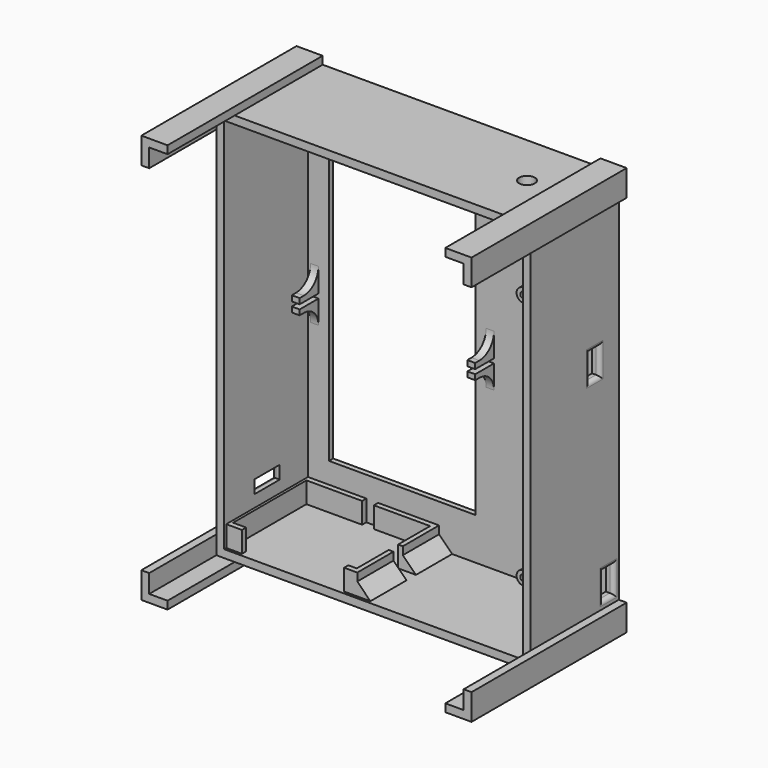
from build123d import *

# Parameters (mm, degrees)
CYLINDER002_R             = 3
CYLINDER002_DEPTH         = 10
BOX040_W                  = 56
BOX040_H                  = 10
BOX040_DEPTH              = 122
BOX021_W                  = 47.2
BOX021_H                  = 35
BOX021_DEPTH              = 8
BOX023_W                  = 4.5
BOX023_H                  = 2
BOX023_DEPTH              = 8
BOX022_W                  = 2
BOX022_H                  = 4.5
BOX022_DEPTH              = 8
BOX020_W                  = 17
BOX020_H                  = 5
BOX020_DEPTH              = 12
BOX018_W                  = 48.5
BOX018_H                  = 4.6
BOX018_DEPTH              = 25.5
FUSION005_PLACEMENT_ANGLE = 90
BOX029_W                  = 10
BOX029_H                  = 5
BOX029_DEPTH              = 10
BOX027_W                  = 29.6
BOX027_H                  = 2
BOX027_DEPTH              = 99.5
BOX028_W                  = 10
BOX028_H                  = 5
BOX028_DEPTH              = 10
BOX035_W                  = 10
BOX035_H                  = 77
BOX035_DEPTH              = 10
BOX034_W                  = 10
BOX034_H                  = 74
BOX034_DEPTH              = 10
CUT016_PLACEMENT_ANGLE    = 90
BOX037_W                  = 10
BOX037_H                  = 77
BOX037_DEPTH              = 10
BOX036_W                  = 10
BOX036_H                  = 74
BOX036_DEPTH              = 10
CUT017_PLACEMENT_ANGLE    = 90
BOX039_W                  = 10
BOX039_H                  = 77
BOX039_DEPTH              = 10
BOX038_W                  = 10
BOX038_H                  = 74
BOX038_DEPTH              = 10
CUT018_PLACEMENT_ANGLE    = 180
BOX033_W                  = 10
BOX033_H                  = 77
BOX033_DEPTH              = 10
BOX017_W                  = 10
BOX017_H                  = 74
BOX017_DEPTH              = 10
BOX032_W                  = 39
BOX032_H                  = 10
BOX032_DEPTH              = 10
BOX024_W                  = 50
BOX024_H                  = 39
BOX024_DEPTH              = 8
BOX026_W                  = 72
BOX026_H                  = 18
BOX026_DEPTH              = 1.7
BOX025_W                  = 3
BOX025_H                  = 10
BOX025_DEPTH              = 5.8
ARRAY005_X_COUNT          = 2
ARRAY005_X_PITCH          = 67
CYLINDER001_R             = 1.2
CYLINDER001_DEPTH         = 4
CYLINDER_R                = 2.6
CYLINDER_DEPTH            = 4
ARRAY006_X_COUNT          = 2
ARRAY006_X_PITCH          = 25
ARRAY006_Z_COUNT          = 2
ARRAY006_Z_PITCH          = 95
BOX016_W                  = 114
BOX016_H                  = 50
BOX016_DEPTH              = 144
BOX015_W                  = 120
BOX015_H                  = 42
BOX015_DEPTH              = 150
FILLET001_R               = 7
CHAMFER_SIZE              = 5
FILLET002_R               = 1.5


with BuildPart() as cilindro002:
    # Cylinder002 → Cylinder002 (new body)
    with BuildSketch(Plane(origin=(101.22, 63.68, 142.21), x_dir=(1, 0, 0), z_dir=(0, 0, 1))):
        Circle(CYLINDER002_R)
    extrude(amount=CYLINDER002_DEPTH)


with BuildPart() as cubo021:
    # Box040 → Box040 (new body)
    with BuildSketch(Plane(origin=(11, 81, 19), x_dir=(1, 0, 0), z_dir=(0, 0, 1))):
        with Locations((28, 5)):
            Rectangle(BOX040_W, BOX040_H)
    extrude(amount=BOX040_DEPTH)


with BuildPart() as protoboard:
    # Box021 → Box021 (new body)
    with BuildSketch(Plane.XY):
        with Locations((23.6, 17.5)):
            Rectangle(BOX021_W, BOX021_H)
    extrude(amount=BOX021_DEPTH)


with BuildPart() as obj1:
    # Box023 → Box023 (new body)
    with BuildSketch(Plane(origin=(21.25, 35, 0), x_dir=(1, 0, 0), z_dir=(0, 0, 1))):
        with Locations((2.25, 1)):
            Rectangle(BOX023_W, BOX023_H)
    extrude(amount=BOX023_DEPTH)


with BuildPart() as obj2:
    # Box022 → Box022 (new body)
    with BuildSketch(Plane(origin=(47, 15.25, 0), x_dir=(1, 0, 0), z_dir=(0, 0, 1))):
        with Locations((1, 2.25)):
            Rectangle(BOX022_W, BOX022_H)
    extrude(amount=BOX022_DEPTH)


with BuildPart() as cubo010:
    # Box020 → Box020 (new body)
    with BuildSketch(Plane(origin=(-7, 5, 6.75), x_dir=(1, 0, 0), z_dir=(0, 0, 1))):
        with Locations((8.5, 2.5)):
            Rectangle(BOX020_W, BOX020_H)
    extrude(amount=BOX020_DEPTH)


with BuildPart() as obj3:
    # Box018 → Box018 (new body)
    with BuildSketch(Plane(origin=(0, 0.4, 0), x_dir=(1, 0, 0), z_dir=(0, 0, 1))):
        with Locations((24.25, 2.3)):
            Rectangle(BOX018_W, BOX018_H)
    extrude(amount=BOX018_DEPTH)

    # Fusion005: union Cubo010
    add(cubo010.part)


with BuildPart() as obj3_1:
    # Fusion005 placement: moved
    add(obj3.part.moved(Location((-0.75, 30.25, 7.6))).rotate(Axis((-0.75, 30.25, 7.6), (1, 0, 0)), FUSION005_PLACEMENT_ANGLE))

    # Fusion006: union protoboard, obj1, obj2
    add(protoboard.part)
    add(obj1.part)
    add(obj2.part)


with BuildPart() as obj3_2:
    # Fusion006 placement: moved
    add(obj3_1.part.moved(Location((4, 45, 3))))


with BuildPart() as on_off:
    # Box029 → Box029 (new body)
    with BuildSketch(Plane(origin=(26, -6, 81.5), x_dir=(1, 0, 0), z_dir=(0, 0, 1))):
        with Locations((5, 2.5)):
            Rectangle(BOX029_W, BOX029_H)
    extrude(amount=BOX029_DEPTH)


with BuildPart() as obj4:
    # Box027 → Box027 (new body)
    with BuildSketch(Plane.XY):
        with Locations((14.8, 1)):
            Rectangle(BOX027_W, BOX027_H)
    extrude(amount=BOX027_DEPTH)


with BuildPart() as fusion011:
    # Box028 → Box028 (new body)
    with BuildSketch(Plane(origin=(26, 0.6, 5.5), x_dir=(1, 0, 0), z_dir=(0, 0, 1))):
        with Locations((5, 2.5)):
            Rectangle(BOX028_W, BOX028_H)
    extrude(amount=BOX028_DEPTH)

    # Fusion008: union on_off, obj4
    add(on_off.part)
    add(obj4.part)


with BuildPart() as fusion011_1:
    # Fusion008 placement: moved
    add(fusion011.part.moved(Location((85.8, 76, 4.23))))

    # Fusion011: union obj3
    add(obj3_2.part)


with BuildPart() as cubo016:
    # Box035 → Box035 (new body)
    with BuildSketch(Plane(origin=(0, 10, 140), x_dir=(1, 0, 0), z_dir=(0, 0, 1))):
        with Locations((5, 38.5)):
            Rectangle(BOX035_W, BOX035_H)
    extrude(amount=BOX035_DEPTH)


with BuildPart() as cut016:
    # Box034 → Box034 (new body)
    with BuildSketch(Plane(origin=(-3, 10, 143), x_dir=(1, 0, 0), z_dir=(0, 0, 1))):
        with Locations((5, 37)):
            Rectangle(BOX034_W, BOX034_H)
    extrude(amount=BOX034_DEPTH)

    # Cut016: cut Cubo016
    add(cubo016.part, mode=Mode.SUBTRACT)


with BuildPart() as cut016_1:
    # Cut016 placement: moved
    add(cut016.part.moved(Location((-30, 0, 150))).rotate(Axis((-30, 0, 150), (0, 1, 0)), CUT016_PLACEMENT_ANGLE))


with BuildPart() as cubo018:
    # Box037 → Box037 (new body)
    with BuildSketch(Plane(origin=(0, 10, 140), x_dir=(1, 0, 0), z_dir=(0, 0, 1))):
        with Locations((5, 38.5)):
            Rectangle(BOX037_W, BOX037_H)
    extrude(amount=BOX037_DEPTH)


with BuildPart() as cut017:
    # Box036 → Box036 (new body)
    with BuildSketch(Plane(origin=(-3, 10, 143), x_dir=(1, 0, 0), z_dir=(0, 0, 1))):
        with Locations((5, 37)):
            Rectangle(BOX036_W, BOX036_H)
    extrude(amount=BOX036_DEPTH)

    # Cut017: cut Cubo018
    add(cubo018.part, mode=Mode.SUBTRACT)


with BuildPart() as cut017_1:
    # Cut017 placement: moved
    add(cut017.part.moved(Location((150, 0, 0))).rotate(Axis((150, 0, 0), (0, -1, 0)), CUT017_PLACEMENT_ANGLE))


with BuildPart() as cubo020:
    # Box039 → Box039 (new body)
    with BuildSketch(Plane(origin=(0, 10, 140), x_dir=(1, 0, 0), z_dir=(0, 0, 1))):
        with Locations((5, 38.5)):
            Rectangle(BOX039_W, BOX039_H)
    extrude(amount=BOX039_DEPTH)


with BuildPart() as cut018:
    # Box038 → Box038 (new body)
    with BuildSketch(Plane(origin=(-3, 10, 143), x_dir=(1, 0, 0), z_dir=(0, 0, 1))):
        with Locations((5, 37)):
            Rectangle(BOX038_W, BOX038_H)
    extrude(amount=BOX038_DEPTH)

    # Cut018: cut Cubo020
    add(cubo020.part, mode=Mode.SUBTRACT)


with BuildPart() as cut018_1:
    # Cut018 placement: moved
    add(cut018.part.moved(Location((120, 0, 150))).rotate(Axis((120, 0, 150), (0, 1, 0)), CUT018_PLACEMENT_ANGLE))


with BuildPart() as cubo014:
    # Box033 → Box033 (new body)
    with BuildSketch(Plane(origin=(0, 10, 140), x_dir=(1, 0, 0), z_dir=(0, 0, 1))):
        with Locations((5, 38.5)):
            Rectangle(BOX033_W, BOX033_H)
    extrude(amount=BOX033_DEPTH)


with BuildPart() as obj5:
    # Box017 → Box017 (new body)
    with BuildSketch(Plane(origin=(-3, 10, 143), x_dir=(1, 0, 0), z_dir=(0, 0, 1))):
        with Locations((5, 37)):
            Rectangle(BOX017_W, BOX017_H)
    extrude(amount=BOX017_DEPTH)

    # Cut015: cut Cubo014
    add(cubo014.part, mode=Mode.SUBTRACT)

    # Fusion009: union Cut016, Cut017, Cut018
    add(cut016_1.part)
    add(cut017_1.part)
    add(cut018_1.part)


with BuildPart() as cubo013:
    # Box032 → Box032 (new body)
    with BuildSketch(Plane(origin=(9, 43, 3), x_dir=(1, 0, 0), z_dir=(0, 0, 1))):
        with Locations((19.5, 5)):
            Rectangle(BOX032_W, BOX032_H)
    extrude(amount=BOX032_DEPTH)


with BuildPart() as baseproto:
    # Box024 → Box024 (new body)
    with BuildSketch(Plane(origin=(3, 43, 3), x_dir=(1, 0, 0), z_dir=(0, 0, 1))):
        with Locations((25, 19.5)):
            Rectangle(BOX024_W, BOX024_H)
    extrude(amount=BOX024_DEPTH)

    # Cut014: cut Cubo013
    add(cubo013.part, mode=Mode.SUBTRACT)


with BuildPart() as leds:
    # Box026 → Box026 (new body)
    with BuildSketch(Plane(origin=(-1, 0, 2), x_dir=(1, 0, 0), z_dir=(0, 0, 1))):
        with Locations((36, 9)):
            Rectangle(BOX026_W, BOX026_H)
    extrude(amount=BOX026_DEPTH)


with BuildPart() as soporte_placa_leds:
    # Box025 → Box025 (new body)
    with BuildSketch(Plane(origin=(0, 8, 0), x_dir=(1, 0, 0), z_dir=(0, 0, 1))):
        with Locations((1.5, 5)):
            Rectangle(BOX025_W, BOX025_H)
    extrude(amount=BOX025_DEPTH)

    # Array005 X: soporte_placa_leds ×2


with BuildPart() as soporte_placa_leds_1:
    add(soporte_placa_leds.part)
    with Locations(*[(i * ARRAY005_X_PITCH, 0, 0) for i in range(1, ARRAY005_X_COUNT)]):
        add(soporte_placa_leds.part)

    # Cut012: cut leds
    add(leds.part, mode=Mode.SUBTRACT)


with BuildPart() as soporte_placa_leds_2:
    # Cut012 placement: moved
    add(soporte_placa_leds_1.part.moved(Location((4, 65, 70.25))))


with BuildPart() as cilindro001:
    # Cylinder001 → Cylinder001 (new body)
    with BuildSketch(Plane(origin=(2.6, 0, 2.6), x_dir=(1, 0, 0), z_dir=(0, -1, 0))):
        Circle(CYLINDER001_R)
    extrude(amount=CYLINDER001_DEPTH)


with BuildPart() as array006:
    # Cylinder → Cylinder (new body)
    with BuildSketch(Plane(origin=(2.6, 0, 2.6), x_dir=(1, 0, 0), z_dir=(0, -1, 0))):
        Circle(CYLINDER_R)
    extrude(amount=CYLINDER_DEPTH)

    # Cut013: cut Cilindro001
    add(cilindro001.part, mode=Mode.SUBTRACT)


with BuildPart() as array006_1:
    # Cut013 placement: moved
    add(array006.part.moved(Location((31.199794, 82, -20.171414))))

    # Array006 X: Array006 ×2


with BuildPart() as array006_2:
    add(array006_1.part)
    with Locations(*[(i * ARRAY006_X_PITCH, 0, 0) for i in range(1, ARRAY006_X_COUNT)]):
        add(array006_1.part)

    # Array006 Z: Array006 ×2


with BuildPart() as array006_3:
    add(array006_2.part)
    with Locations(*[(0, 0, i * ARRAY006_Z_PITCH) for i in range(1, ARRAY006_Z_COUNT)]):
        add(array006_2.part)


with BuildPart() as array006_4:
    # Array006 placement: moved
    add(array006_3.part.moved(Location((54.6, 0, 24))))


with BuildPart() as cubo006:
    # Box016 → Box016 (new body)
    with BuildSketch(Plane(origin=(3, 32, 3), x_dir=(1, 0, 0), z_dir=(0, 0, 1))):
        with Locations((57, 25)):
            Rectangle(BOX016_W, BOX016_H)
    extrude(amount=BOX016_DEPTH)


with BuildPart() as closet_bottom_esp8266:
    # Box015 → Box015 (new body)
    with BuildSketch(Plane(origin=(0, 42, 0), x_dir=(1, 0, 0), z_dir=(0, 0, 1))):
        with Locations((60, 21)):
            Rectangle(BOX015_W, BOX015_H)
    extrude(amount=BOX015_DEPTH)

    # Cut010: cut Cubo006
    add(cubo006.part, mode=Mode.SUBTRACT)

    # Fusion010: union obj5, baseProto, soporte_placa_leds, Array006
    add(obj5.part)
    add(baseproto.part)
    add(soporte_placa_leds_2.part)
    add(array006_4.part)

    # Cut019: cut Fusion011
    add(fusion011_1.part, mode=Mode.SUBTRACT)

    # Cut020: cut Cubo021
    add(cubo021.part, mode=Mode.SUBTRACT)

    # Cut021: cut Cilindro002
    add(cilindro002.part, mode=Mode.SUBTRACT)

    # Fillet001
    fillet001_edges = [closet_bottom_esp8266.edges().sort_by_distance(p)[0] for p in [
        (5.5, 82, 70.25),
        (5.5, 82, 76.05),
        (72.5, 82, 70.25),
        (72.5, 82, 76.05),
    ]]
    fillet(fillet001_edges, radius=FILLET001_R)

    # Chamfer
    chamfer_edges = [closet_bottom_esp8266.edges().sort_by_distance(p)[0] for p in [
        (53, 51.625, 3),
        (53, 73.375, 3),
    ]]
    chamfer(chamfer_edges, length=CHAMFER_SIZE)

    # Fillet002
    fillet002_edges = [closet_bottom_esp8266.edges().sort_by_distance(p)[0] for p in [
        (120, 79.1, 19.73),
        (120, 76.6, 14.73),
        (120, 79.1, 9.73),
        (120, 81.6, 14.73),
        (120, 72.5, 85.73),
        (120, 75, 90.73),
        (120, 72.5, 95.73),
        (120, 70, 90.73),
        (0, 68.5, 18.1),
        (0, 62.5, 20.6),
        (0, 56.5, 18.1),
        (0, 62.5, 15.6),
    ]]
    fillet(fillet002_edges, radius=FILLET002_R)


solid = closet_bottom_esp8266.part
